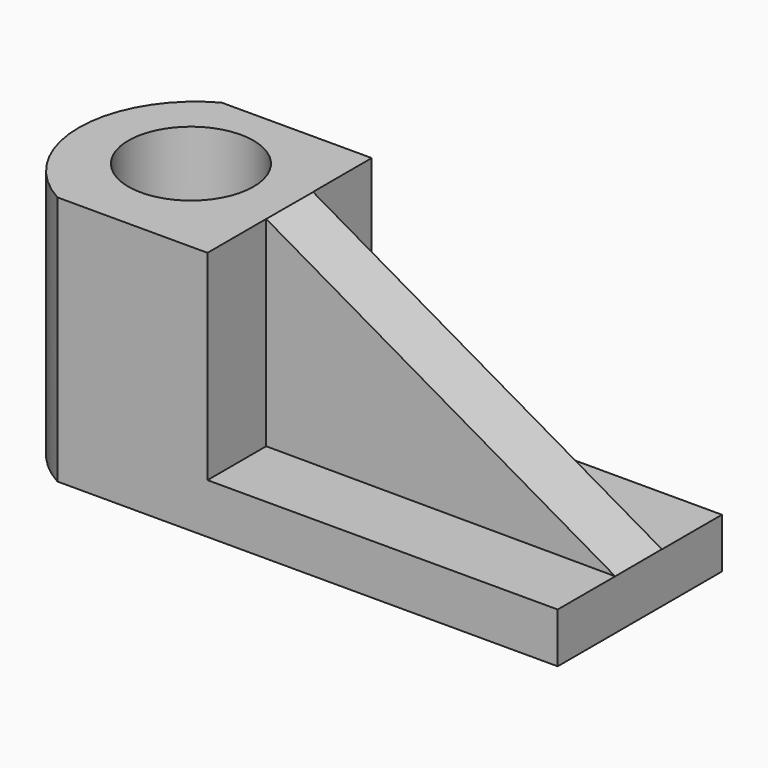
from build123d import *

# Parameters (mm, degrees)
F1_DEPTH = 30
F2_W     = 24.6179879843
F2_H     = 6
F3_DEPTH = 42
F5_DEPTH = 24
F7_DEPTH = 100
F8_R     = 7.5
F9_DEPTH = 100


with BuildPart() as f1:
    # F0 (on Top) → F1 (new body)
    with BuildSketch(Plane.XY):
        with BuildLine():
            Line((-12.7826083564, 24.6179879843), (-30.7826083564, 24.6179879843))
            ThreePointArc((-30.7826083564, 24.6179879843), (-38.0569803183, 12.3089939921), (-30.7826083564, 0))
            Line((-30.7826083564, 0), (-12.7826083564, 0))
            Line((-12.7826083564, 0), (-12.7826083564, 24.6179879843))
        make_face()
    extrude(amount=F1_DEPTH)

    # F2 (on face) → F3 (join)
    with BuildSketch(Plane.YZ.offset(-12.7826083564)):
        with Locations((12.3089939921, 3)):
            Rectangle(F2_W, F2_H)
    extrude(amount=F3_DEPTH)

    # F4 (on face) → F5 (join)
    with BuildSketch(Plane.XY.offset(6)):
        Polygon((29.2173916436, 15.6179879843), (-12.7826083564, 15.8001863448), (-12.7826083564, 8.8001863448), (29.2173916436, 8.6179879843), align=None)
    extrude(amount=F5_DEPTH)

    # F6 (on face) → F7 (cut)
    with BuildSketch(Plane(origin=(0.0379344366, 8.7445701096, 0), x_dir=(0.9999905908, -0.0043380154, 0), z_dir=(-0.0043380154, -0.9999905908, 0))):
        Polygon((29.1797317659, 30), (-12.8206634256, 30), (29.1797317659, 6), align=None)
    extrude(amount=-F7_DEPTH, mode=Mode.SUBTRACT)

    # F8 (on face) → F9 (cut)
    with BuildSketch(Plane.XY.offset(30)):
        with Locations((-25.2924282104, 13.1551967934)):
            Circle(F8_R)
    extrude(amount=-F9_DEPTH, mode=Mode.SUBTRACT)


solid = f1.part
